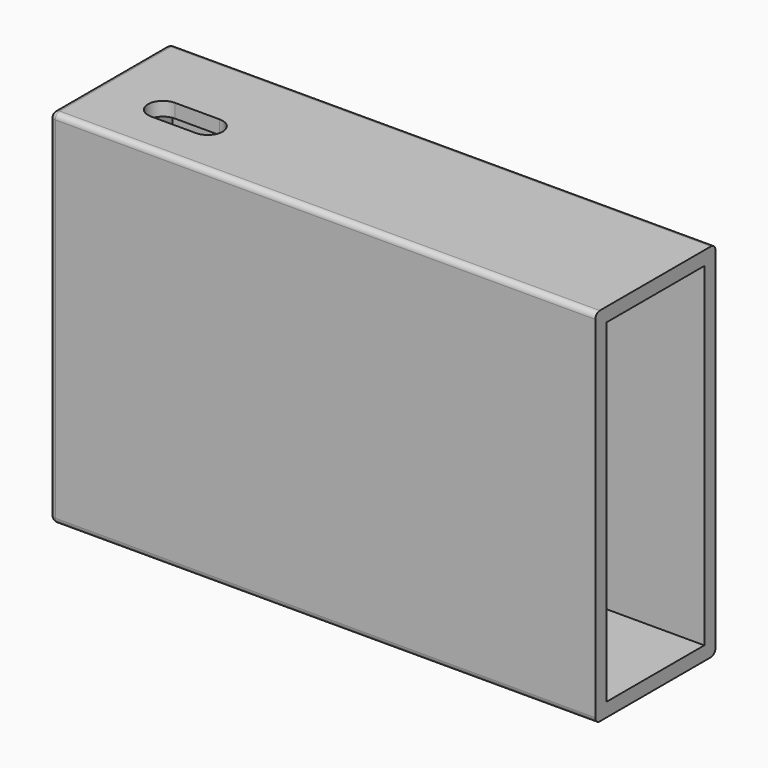
from build123d import *

# Parameters (mm, degrees)
SKETCH003_W      = 27.1
SKETCH003_H      = 65.3
EXTRUDE002_DEPTH = 2.5
SKETCH004_W      = 2
SKETCH004_H      = 2
PAD003_DEPTH     = 90
SKETCH005_W      = 27.1
SKETCH005_H      = 65.3
SKETCH005_W_2    = 22.1
SKETCH005_H_2    = 60.3
PAD004_DEPTH     = 96
POCKET_DEPTH     = 2.5
POCKET001_DEPTH  = 2.5
FILLET_R         = 1


with BuildPart() as part:
    # Sketch003 → Extrude002 (new body)
    with BuildSketch(Plane(origin=(-45.5, -6.5, -29), x_dir=(0, -1, 0), z_dir=(-1, 0, 0))):
        with Locations((-11.05, 30.15)):
            Rectangle(SKETCH003_W, SKETCH003_H)
    extrude(amount=EXTRUDE002_DEPTH)

    # Sketch004 → Pad003 (new body)
    with BuildSketch(Plane.YZ.offset(-45.5)):
        with Locations((-3, -28)):
            Rectangle(SKETCH004_W, SKETCH004_H)
        with Locations((-3, 30.3)):
            Rectangle(SKETCH004_W, SKETCH004_H)
    extrude(amount=PAD003_DEPTH)

    # Sketch005 → Pad004 (new body)
    with BuildSketch(Plane.YZ.offset(-45.5)):
        with Locations((4.55, 1.15)):
            Rectangle(SKETCH005_W, SKETCH005_H)
        with Locations((4.55, 1.15)):
            Rectangle(SKETCH005_W_2, SKETCH005_H_2, mode=Mode.SUBTRACT)
    extrude(amount=PAD004_DEPTH)

    # Sketch006 → Pocket (cut)
    with BuildSketch(Plane.XY.offset(33.8)):
        with BuildLine():
            ThreePointArc((-35.90548, 4.1175), (-38.58891, 1.43407), (-35.90548, -1.24936))
            Line((-35.90548, -1.24936), (-27.8154, -1.24936))
            ThreePointArc((-27.8154, -1.24936), (-25.13197, 1.43407), (-27.8154, 4.1175))
            Line((-35.90548, 4.1175), (-27.8154, 4.1175))
        make_face()
    extrude(amount=-POCKET_DEPTH, mode=Mode.SUBTRACT)

    # Sketch007 → Pocket001 (cut)
    with BuildSketch(Plane(origin=(0, 18.1, 0), x_dir=(-1, 0, 0), z_dir=(0, 1, 0))):
        with BuildLine():
            ThreePointArc((22.1471, -21.12672), (18.8058, -24.46802), (22.1471, -27.80932))
            Line((22.1471, -27.80932), (33.8994, -27.80932))
            ThreePointArc((33.8994, -27.80932), (37.2407, -24.46802), (33.8994, -21.12672))
            Line((22.1471, -21.12672), (33.8994, -21.12672))
        make_face()
    extrude(amount=-POCKET001_DEPTH, mode=Mode.SUBTRACT)

    # Fillet
    fillet_edges = [part.edges().sort_by_distance(p)[0] for p in [
        (2.5, -9, 33.8),
        (2.5, -9, -31.5),
        (-46.75, -9, -31.5),
        (-46.75, -9, 33.8),
        (-48, -9, 1.15),
        (-48, 4.55, 33.8),
        (-48, 18.1, 1.15),
        (-48, 4.55, -31.5),
        (2.5, 18.1, 33.8),
        (-46.75, 18.1, 33.8),
        (-46.75, 18.1, -31.5),
        (2.5, 18.1, -31.5),
    ]]
    fillet(fillet_edges, radius=FILLET_R)


solid = part.part
